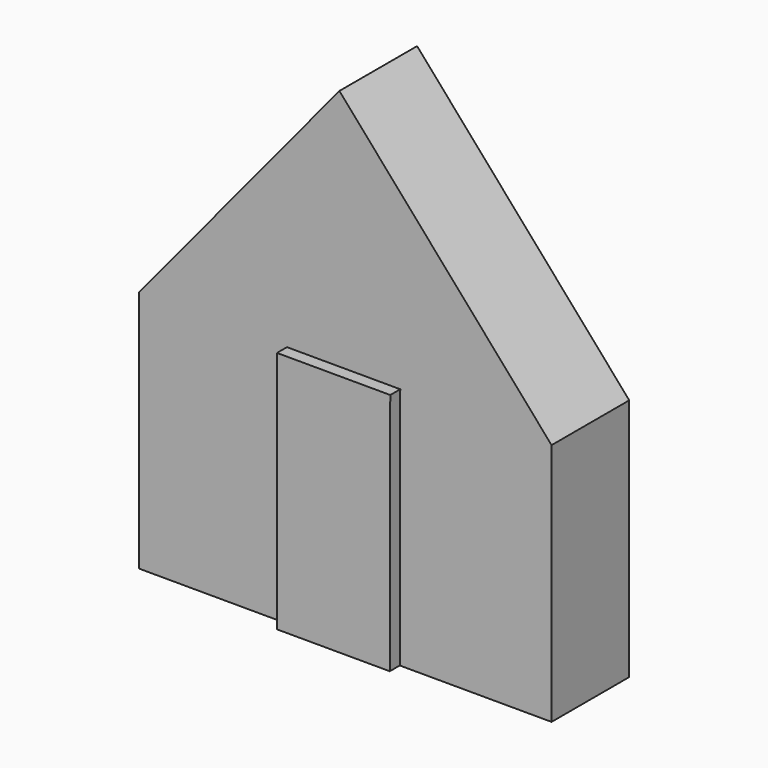
from build123d import *

# Parameters (mm, degrees)
F1_DEPTH = 25.4
F3_DEPTH = 2.89445


with BuildPart() as f1:
    # F0 (on Front) → F1 (new body)
    with BuildSketch(Plane.XZ):
        Polygon((49.163915, 0), (0, 56.282241), (-46.506405, 0), (-46.506405, -56.282241), (49.163915, -56.472063), align=None)
    extrude(amount=F1_DEPTH)

    # F2 (on face) → F3 (cut)
    with BuildSketch(Plane.XZ.offset(25.4)):
        Polygon((14.097606, 0), (13.985696, -56.402265), (49.163915, -56.472063), (49.163915, 0), (0, 56.282241), (-46.506405, 0), (-46.506405, -56.282241), (-12.156427, -56.350396), (-12.156427, 0.052091), align=None)
    extrude(amount=-F3_DEPTH, mode=Mode.SUBTRACT)


solid = f1.part
